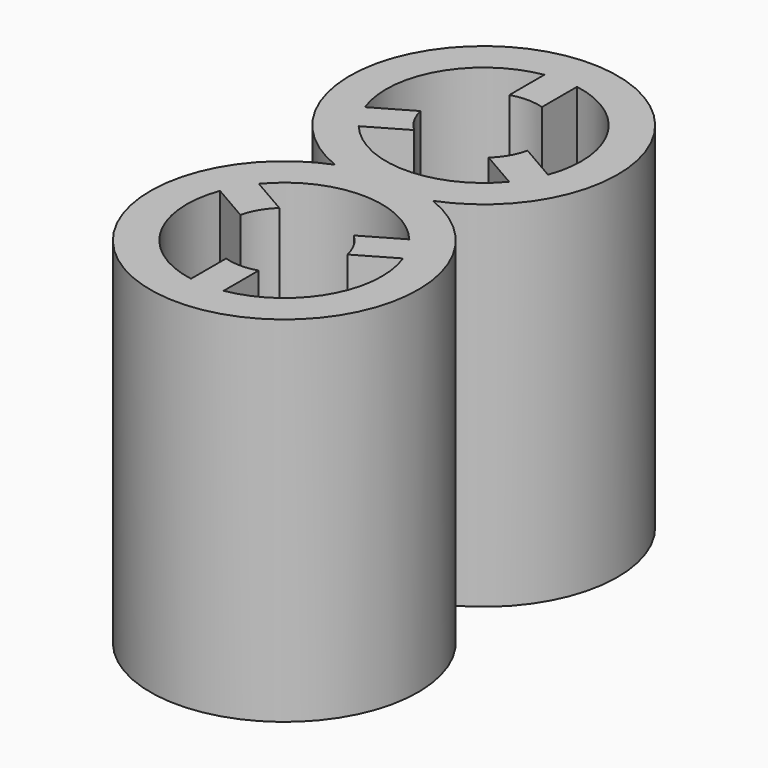
from build123d import *

# Parameters (mm, degrees)
F1_DEPTH = 25.4


with BuildPart() as f1:
    # F0 (on Top) → F1 (new body)
    with BuildSketch(Plane.XY):
        with BuildLine():
            ThreePointArc((-3.508966, 0.758083), (0, -17.776244), (3.508966, 0.758083))
            ThreePointArc((3.508966, 0.758083), (0, 19.292409), (-3.508966, 0.758083))
        make_face()
        with BuildLine():
            Line((-2.670086, -5.286439), (-5.392125, -3.714869))
            ThreePointArc((-5.392125, -3.714869), (0, -1.177997), (5.392125, -3.714869))
            Line((5.392125, -3.714869), (2.670086, -5.286439))
            ThreePointArc((2.670086, -5.286439), (3.40781, -6.209417), (3.838271, -7.309794))
            Line((3.838271, -7.309794), (6.560309, -5.738224))
            ThreePointArc((6.560309, -5.738224), (6.061242, -11.676377), (1.168185, -15.077658))
            Line((1.168185, -15.077658), (1.168185, -11.934519))
            ThreePointArc((1.168185, -11.934519), (0, -12.111917), (-1.168185, -11.934519))
            Line((-1.168185, -11.934519), (-1.168185, -15.077658))
            ThreePointArc((-1.168185, -15.077658), (-6.061242, -11.676377), (-6.560309, -5.738224))
            Line((-6.560309, -5.738224), (-3.838271, -7.309794))
            ThreePointArc((-3.838271, -7.309794), (-3.40781, -6.209417), (-2.670086, -5.286439))
        make_face(mode=Mode.SUBTRACT)
        with BuildLine():
            ThreePointArc((-6.560309, 7.25439), (-6.061242, 13.192543), (-1.168185, 16.593824))
            Line((-1.168185, 16.593824), (-1.168185, 13.450684))
            ThreePointArc((-1.168185, 13.450684), (0, 13.628083), (1.168185, 13.450684))
            Line((1.168185, 13.450684), (1.168185, 16.593824))
            ThreePointArc((1.168185, 16.593824), (6.061242, 13.192543), (6.560309, 7.25439))
            Line((6.560309, 7.25439), (3.838271, 8.825959))
            ThreePointArc((3.838271, 8.825959), (3.40781, 7.725583), (2.670086, 6.802604))
            Line((2.670086, 6.802604), (5.392125, 5.231035))
            ThreePointArc((5.392125, 5.231035), (0, 2.694163), (-5.392125, 5.231035))
            Line((-5.392125, 5.231035), (-2.670086, 6.802604))
            ThreePointArc((-2.670086, 6.802604), (-3.40781, 7.725583), (-3.838271, 8.825959))
            Line((-3.838271, 8.825959), (-6.560309, 7.25439))
        make_face(mode=Mode.SUBTRACT)
    extrude(amount=F1_DEPTH)


solid = f1.part
